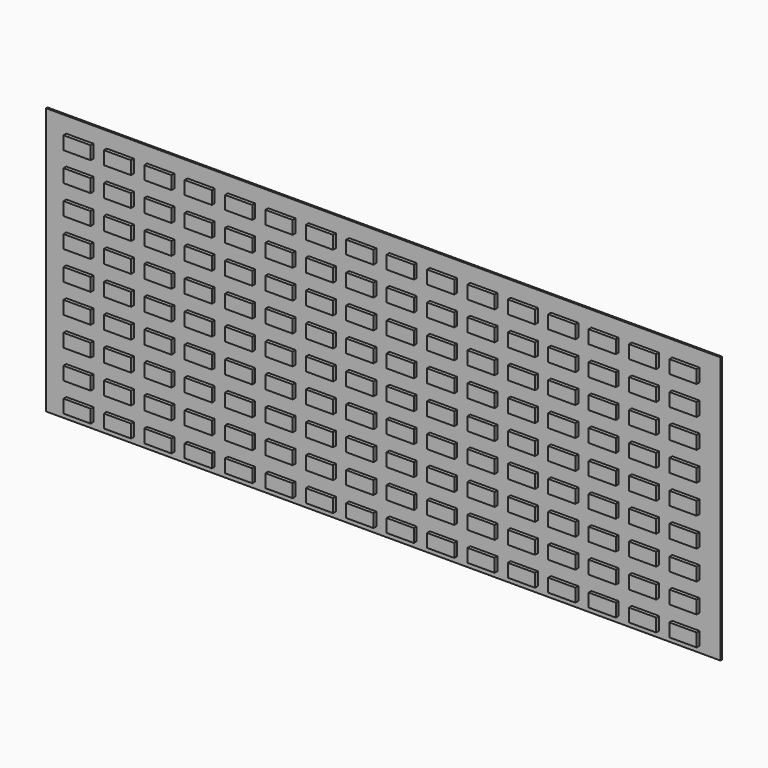
from build123d import *

# Parameters (mm, degrees)
F0_W     = 1219.2
F0_H     = 482.6
F1_DEPTH = 3.175
F2_W     = 49.2125
F2_H     = 23.8125
F3_DEPTH = 6.35
F4_W     = 49.2125
F4_H     = 23.8125
F5_DEPTH = 6.35
F6_W     = 49.2125
F6_H     = 23.8125
F7_DEPTH = 6.35


with BuildPart() as f1:
    # F0 (on Front) → F1 (new body)
    with BuildSketch(Plane.XZ):
        Rectangle(F0_W, F0_H)
    extrude(amount=F1_DEPTH)

    # F2 (on face) → F3 (join)
    with BuildSketch(Plane.XZ.offset(3.175)):
        with Locations((-548.48125, 200.81875)):
            Rectangle(F2_W, F2_H)
        with Locations((-548.48125, 148.43125)):
            Rectangle(F2_W, F2_H)
        with Locations((-475.45625, 200.81875)):
            Rectangle(F2_W, F2_H)
        with Locations((-402.43125, 200.81875)):
            Rectangle(F2_W, F2_H)
        with Locations((-329.40625, 200.81875)):
            Rectangle(F2_W, F2_H)
        with Locations((-256.38125, 200.81875)):
            Rectangle(F2_W, F2_H)
        with Locations((-183.35625, 200.81875)):
            Rectangle(F2_W, F2_H)
        with Locations((-110.33125, 200.81875)):
            Rectangle(F2_W, F2_H)
        with Locations((-37.30625, 200.81875)):
            Rectangle(F2_W, F2_H)
        with Locations((35.71875, 200.81875)):
            Rectangle(F2_W, F2_H)
        with Locations((108.74375, 200.81875)):
            Rectangle(F2_W, F2_H)
        with Locations((181.76875, 200.81875)):
            Rectangle(F2_W, F2_H)
        with Locations((254.79375, 200.81875)):
            Rectangle(F2_W, F2_H)
        with Locations((327.81875, 200.81875)):
            Rectangle(F2_W, F2_H)
        with Locations((400.84375, 200.81875)):
            Rectangle(F2_W, F2_H)
        with Locations((473.86875, 200.81875)):
            Rectangle(F2_W, F2_H)
        with Locations((-475.45625, 148.43125)):
            Rectangle(F2_W, F2_H)
        with Locations((-402.43125, 148.43125)):
            Rectangle(F2_W, F2_H)
        with Locations((-329.40625, 148.43125)):
            Rectangle(F2_W, F2_H)
        with Locations((-256.38125, 148.43125)):
            Rectangle(F2_W, F2_H)
        with Locations((-183.35625, 148.43125)):
            Rectangle(F2_W, F2_H)
        with Locations((-110.33125, 148.43125)):
            Rectangle(F2_W, F2_H)
        with Locations((-37.30625, 148.43125)):
            Rectangle(F2_W, F2_H)
        with Locations((35.71875, 148.43125)):
            Rectangle(F2_W, F2_H)
        with Locations((108.74375, 148.43125)):
            Rectangle(F2_W, F2_H)
        with Locations((181.76875, 148.43125)):
            Rectangle(F2_W, F2_H)
        with Locations((254.79375, 148.43125)):
            Rectangle(F2_W, F2_H)
        with Locations((327.81875, 148.43125)):
            Rectangle(F2_W, F2_H)
        with Locations((400.84375, 148.43125)):
            Rectangle(F2_W, F2_H)
        with Locations((473.86875, 148.43125)):
            Rectangle(F2_W, F2_H)
        with Locations((546.89375, 200.81875)):
            Rectangle(F2_W, F2_H)
        with Locations((546.89375, 148.43125)):
            Rectangle(F2_W, F2_H)
    extrude(amount=F3_DEPTH)

    # F4 (on face) → F5 (join)
    with BuildSketch(Plane.XZ.offset(3.175)):
        with Locations((-548.48125, 96.04375)):
            Rectangle(F4_W, F4_H)
        with Locations((-548.48125, 43.65625)):
            Rectangle(F4_W, F4_H)
        with Locations((-548.48125, -8.73125)):
            Rectangle(F4_W, F4_H)
        with Locations((-475.45625, 96.04375)):
            Rectangle(F4_W, F4_H)
        with Locations((-402.43125, 96.04375)):
            Rectangle(F4_W, F4_H)
        with Locations((-329.40625, 96.04375)):
            Rectangle(F4_W, F4_H)
        with Locations((-256.38125, 96.04375)):
            Rectangle(F4_W, F4_H)
        with Locations((-183.35625, 96.04375)):
            Rectangle(F4_W, F4_H)
        with Locations((-475.45625, 43.65625)):
            Rectangle(F4_W, F4_H)
        with Locations((-402.43125, 43.65625)):
            Rectangle(F4_W, F4_H)
        with Locations((-329.40625, 43.65625)):
            Rectangle(F4_W, F4_H)
        with Locations((-256.38125, 43.65625)):
            Rectangle(F4_W, F4_H)
        with Locations((-183.35625, 43.65625)):
            Rectangle(F4_W, F4_H)
        with Locations((-475.45625, -8.73125)):
            Rectangle(F4_W, F4_H)
        with Locations((-402.43125, -8.73125)):
            Rectangle(F4_W, F4_H)
        with Locations((-329.40625, -8.73125)):
            Rectangle(F4_W, F4_H)
        with Locations((-256.38125, -8.73125)):
            Rectangle(F4_W, F4_H)
        with Locations((-183.35625, -8.73125)):
            Rectangle(F4_W, F4_H)
        with Locations((-110.33125, 96.04375)):
            Rectangle(F4_W, F4_H)
        with Locations((-110.33125, 43.65625)):
            Rectangle(F4_W, F4_H)
        with Locations((-110.33125, -8.73125)):
            Rectangle(F4_W, F4_H)
        with Locations((-37.30625, -8.73125)):
            Rectangle(F4_W, F4_H)
        with Locations((-37.30625, 43.65625)):
            Rectangle(F4_W, F4_H)
        with Locations((-37.30625, 96.04375)):
            Rectangle(F4_W, F4_H)
        with Locations((35.71875, 96.04375)):
            Rectangle(F4_W, F4_H)
        with Locations((35.71875, 43.65625)):
            Rectangle(F4_W, F4_H)
        with Locations((35.71875, -8.73125)):
            Rectangle(F4_W, F4_H)
        with Locations((108.74375, -8.73125)):
            Rectangle(F4_W, F4_H)
        with Locations((108.74375, 43.65625)):
            Rectangle(F4_W, F4_H)
        with Locations((108.74375, 96.04375)):
            Rectangle(F4_W, F4_H)
        with Locations((181.76875, 96.04375)):
            Rectangle(F4_W, F4_H)
        with Locations((181.76875, 43.65625)):
            Rectangle(F4_W, F4_H)
        with Locations((181.76875, -8.73125)):
            Rectangle(F4_W, F4_H)
        with Locations((254.79375, -8.73125)):
            Rectangle(F4_W, F4_H)
        with Locations((254.79375, 43.65625)):
            Rectangle(F4_W, F4_H)
        with Locations((254.79375, 96.04375)):
            Rectangle(F4_W, F4_H)
        with Locations((327.81875, 96.04375)):
            Rectangle(F4_W, F4_H)
        with Locations((327.81875, 43.65625)):
            Rectangle(F4_W, F4_H)
        with Locations((327.81875, -8.73125)):
            Rectangle(F4_W, F4_H)
        with Locations((400.84375, 96.04375)):
            Rectangle(F4_W, F4_H)
        with Locations((400.84375, 43.65625)):
            Rectangle(F4_W, F4_H)
        with Locations((400.84375, -8.73125)):
            Rectangle(F4_W, F4_H)
        with Locations((473.86875, 96.04375)):
            Rectangle(F4_W, F4_H)
        with Locations((473.86875, 43.65625)):
            Rectangle(F4_W, F4_H)
        with Locations((473.86875, -8.73125)):
            Rectangle(F4_W, F4_H)
        with Locations((546.89375, 96.04375)):
            Rectangle(F4_W, F4_H)
        with Locations((546.89375, 43.65625)):
            Rectangle(F4_W, F4_H)
        with Locations((546.89375, -8.73125)):
            Rectangle(F4_W, F4_H)
    extrude(amount=F5_DEPTH)

    # F6 (on face) → F7 (join)
    with BuildSketch(Plane.XZ.offset(3.175)):
        with Locations((-548.48125, -61.11875)):
            Rectangle(F6_W, F6_H)
        with Locations((-548.48125, -113.50625)):
            Rectangle(F6_W, F6_H)
        with Locations((-548.48125, -165.89375)):
            Rectangle(F6_W, F6_H)
        with Locations((-548.48125, -218.28125)):
            Rectangle(F6_W, F6_H)
        with Locations((-475.45625, -61.11875)):
            Rectangle(F6_W, F6_H)
        with Locations((-402.43125, -61.11875)):
            Rectangle(F6_W, F6_H)
        with Locations((-475.45625, -113.50625)):
            Rectangle(F6_W, F6_H)
        with Locations((-475.45625, -165.89375)):
            Rectangle(F6_W, F6_H)
        with Locations((-475.45625, -218.28125)):
            Rectangle(F6_W, F6_H)
        with Locations((-402.43125, -113.50625)):
            Rectangle(F6_W, F6_H)
        with Locations((-402.43125, -165.89375)):
            Rectangle(F6_W, F6_H)
        with Locations((-402.43125, -218.28125)):
            Rectangle(F6_W, F6_H)
        with Locations((-329.40625, -61.11875)):
            Rectangle(F6_W, F6_H)
        with Locations((-329.40625, -113.50625)):
            Rectangle(F6_W, F6_H)
        with Locations((-329.40625, -165.89375)):
            Rectangle(F6_W, F6_H)
        with Locations((-329.40625, -218.28125)):
            Rectangle(F6_W, F6_H)
        with Locations((-256.38125, -61.11875)):
            Rectangle(F6_W, F6_H)
        with Locations((-183.35625, -61.11875)):
            Rectangle(F6_W, F6_H)
        with Locations((-110.33125, -61.11875)):
            Rectangle(F6_W, F6_H)
        with Locations((-37.30625, -61.11875)):
            Rectangle(F6_W, F6_H)
        with Locations((35.71875, -61.11875)):
            Rectangle(F6_W, F6_H)
        with Locations((-256.38125, -113.50625)):
            Rectangle(F6_W, F6_H)
        with Locations((-183.35625, -113.50625)):
            Rectangle(F6_W, F6_H)
        with Locations((-110.33125, -113.50625)):
            Rectangle(F6_W, F6_H)
        with Locations((-37.30625, -113.50625)):
            Rectangle(F6_W, F6_H)
        with Locations((35.71875, -113.50625)):
            Rectangle(F6_W, F6_H)
        with Locations((-256.38125, -165.89375)):
            Rectangle(F6_W, F6_H)
        with Locations((-183.35625, -165.89375)):
            Rectangle(F6_W, F6_H)
        with Locations((-110.33125, -165.89375)):
            Rectangle(F6_W, F6_H)
        with Locations((-37.30625, -165.89375)):
            Rectangle(F6_W, F6_H)
        with Locations((35.71875, -165.89375)):
            Rectangle(F6_W, F6_H)
        with Locations((-256.38125, -218.28125)):
            Rectangle(F6_W, F6_H)
        with Locations((-183.35625, -218.28125)):
            Rectangle(F6_W, F6_H)
        with Locations((-110.33125, -218.28125)):
            Rectangle(F6_W, F6_H)
        with Locations((-37.30625, -218.28125)):
            Rectangle(F6_W, F6_H)
        with Locations((35.71875, -218.28125)):
            Rectangle(F6_W, F6_H)
        with Locations((108.74375, -61.11875)):
            Rectangle(F6_W, F6_H)
        with Locations((108.74375, -113.50625)):
            Rectangle(F6_W, F6_H)
        with Locations((108.74375, -165.89375)):
            Rectangle(F6_W, F6_H)
        with Locations((108.74375, -218.28125)):
            Rectangle(F6_W, F6_H)
        with Locations((181.76875, -61.11875)):
            Rectangle(F6_W, F6_H)
        with Locations((181.76875, -113.50625)):
            Rectangle(F6_W, F6_H)
        with Locations((181.76875, -165.89375)):
            Rectangle(F6_W, F6_H)
        with Locations((181.76875, -218.28125)):
            Rectangle(F6_W, F6_H)
        with Locations((254.79375, -61.11875)):
            Rectangle(F6_W, F6_H)
        with Locations((254.79375, -113.50625)):
            Rectangle(F6_W, F6_H)
        with Locations((254.79375, -165.89375)):
            Rectangle(F6_W, F6_H)
        with Locations((254.79375, -218.28125)):
            Rectangle(F6_W, F6_H)
        with Locations((327.81875, -61.11875)):
            Rectangle(F6_W, F6_H)
        with Locations((327.81875, -113.50625)):
            Rectangle(F6_W, F6_H)
        with Locations((327.81875, -165.89375)):
            Rectangle(F6_W, F6_H)
        with Locations((327.81875, -218.28125)):
            Rectangle(F6_W, F6_H)
        with Locations((400.84375, -61.11875)):
            Rectangle(F6_W, F6_H)
        with Locations((400.84375, -113.50625)):
            Rectangle(F6_W, F6_H)
        with Locations((400.84375, -165.89375)):
            Rectangle(F6_W, F6_H)
        with Locations((400.84375, -218.28125)):
            Rectangle(F6_W, F6_H)
        with Locations((473.86875, -61.11875)):
            Rectangle(F6_W, F6_H)
        with Locations((473.86875, -113.50625)):
            Rectangle(F6_W, F6_H)
        with Locations((473.86875, -165.89375)):
            Rectangle(F6_W, F6_H)
        with Locations((473.86875, -218.28125)):
            Rectangle(F6_W, F6_H)
        with Locations((546.89375, -61.11875)):
            Rectangle(F6_W, F6_H)
        with Locations((546.89375, -113.50625)):
            Rectangle(F6_W, F6_H)
        with Locations((546.89375, -165.89375)):
            Rectangle(F6_W, F6_H)
        with Locations((546.89375, -218.28125)):
            Rectangle(F6_W, F6_H)
    extrude(amount=F7_DEPTH)


solid = f1.part
